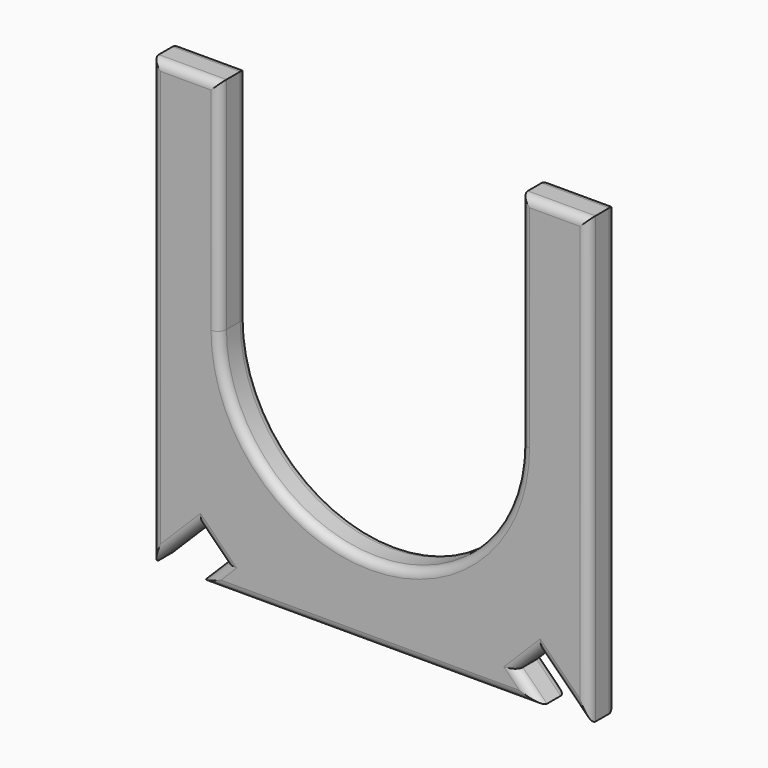
from build123d import *

# Parameters (mm, degrees)
BOX026_W               = 2
BOX026_H               = 2
BOX026_DEPTH           = 4
BOX026_PLACEMENT_ANGLE = 45
BOX027_W               = 2
BOX027_H               = 2
BOX027_DEPTH           = 4
BOX027_PLACEMENT_ANGLE = 45
BOX025_W               = 17.6
BOX025_H               = 2
BOX025_DEPTH           = 12.85
CYLINDER063_R          = 8.8
CYLINDER063_DEPTH      = 2
BOX024_W               = 25.5
BOX024_H               = 2
BOX024_DEPTH           = 26
FILLET_R               = 0.5


with BuildPart() as obj1:
    # Box026 → Box026 (new body)
    with BuildSketch(Plane.XY):
        with Locations((1, 1)):
            Rectangle(BOX026_W, BOX026_H)
    extrude(amount=BOX026_DEPTH)


with BuildPart() as obj1_1:
    # Box026 placement: moved
    add(obj1.part.moved(Location((-12.75, 0, -13.15))).rotate(Axis((-12.75, 0, -13.15), (0, 1, 0)), BOX026_PLACEMENT_ANGLE))


with BuildPart() as obj2:
    # Part__Mirroring006: instance of obj1
    add(obj1_1.part.mirror(Plane(origin=(0, 0, 0), x_dir=(0, -1, 0), z_dir=(1, 0, 0))))


with BuildPart() as obj3:
    # Box027 → Box027 (new body)
    with BuildSketch(Plane.XY):
        with Locations((1, 1)):
            Rectangle(BOX027_W, BOX027_H)
    extrude(amount=BOX027_DEPTH)


with BuildPart() as obj3_1:
    # Box027 placement: moved
    add(obj3.part.moved(Location((-12.75, 0, -13.15))).rotate(Axis((-12.75, 0, -13.15), (0, 1, 0)), BOX027_PLACEMENT_ANGLE))


with BuildPart() as obj4:
    # Box025 → Box025 (new body)
    with BuildSketch(Plane(origin=(-8.8, 0, 0), x_dir=(1, 0, 0), z_dir=(0, 0, 1))):
        with Locations((8.8, 1)):
            Rectangle(BOX025_W, BOX025_H)
    extrude(amount=BOX025_DEPTH)


with BuildPart() as obj5:
    # Cylinder063 → Cylinder063 (new body)
    with BuildSketch(Plane(origin=(0, 0, 0), x_dir=(1, 0, 0), z_dir=(0, 1, 0))):
        Circle(CYLINDER063_R)
    extrude(amount=CYLINDER063_DEPTH)

    # Fusion062: union obj2, obj3, obj4
    add(obj2.part)
    add(obj3_1.part)
    add(obj4.part)


with BuildPart() as toplevelpart_outletkey:
    # Box024 → Box024 (new body)
    with BuildSketch(Plane(origin=(-12.75, 0, -13.15), x_dir=(1, 0, 0), z_dir=(0, 0, 1))):
        with Locations((12.75, 1)):
            Rectangle(BOX024_W, BOX024_H)
    extrude(amount=BOX024_DEPTH)

    # Cut021: cut obj5
    add(obj5.part, mode=Mode.SUBTRACT)

    # Fillet
    fillet_edges = [toplevelpart_outletkey.edges().sort_by_distance(p)[0] for p in [
        (-12.75, 0, -0.15),
        (-12.75, 2, -0.15),
        (-11.335786, 0, -11.735786),
        (-9.214466, 0, -11.02868),
        (-9.214466, 0, -12.442893),
        (0, 0, -13.15),
        (9.214466, 0, -12.442893),
        (9.214466, 0, -11.02868),
        (11.335786, 0, -11.735786),
        (12.75, 0, -0.15),
        (10.775, 0, 12.85),
        (8.8, 0, 6.425),
        (0, 0, -8.8),
        (-8.8, 0, 6.425),
        (-10.775, 0, 12.85),
        (-10.775, 2, 12.85),
        (-11.335786, 2, -11.735786),
        (-9.214466, 2, -11.02868),
        (-9.214466, 2, -12.442893),
        (0, 2, -13.15),
        (9.214466, 2, -12.442893),
        (9.214466, 2, -11.02868),
        (11.335786, 2, -11.735786),
        (12.75, 2, -0.15),
        (10.775, 2, 12.85),
        (8.8, 2, 6.425),
        (0, 2, -8.8),
        (-8.8, 2, 6.425),
    ]]
    fillet(fillet_edges, radius=FILLET_R)


with BuildPart() as toplevelpart_outletkey_1:
    # Fillet placement: moved
    add(toplevelpart_outletkey.part.moved(Location((22, 39.1, 13.15))))


solid = toplevelpart_outletkey_1.part
